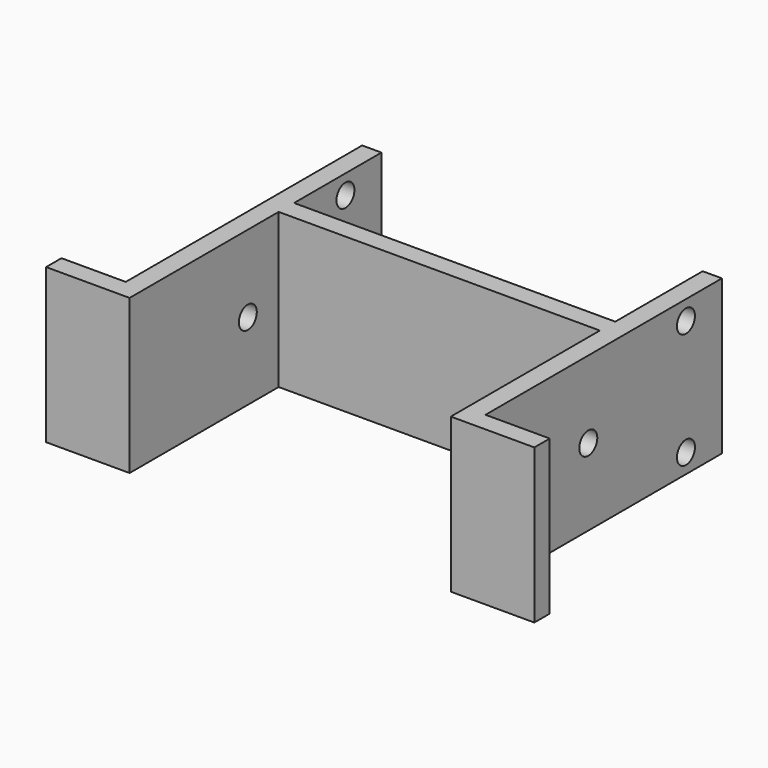
from build123d import *

# Parameters (mm, degrees)
F1_DEPTH = 12
F2_R     = 1.75
F3_DEPTH = 66.001


with BuildPart() as f1:
    # F0 (on Top) → F1 (new body, symmetric)
    with BuildSketch(Plane.XY):
        Polygon((-38, 3), (-38, 0), (-25, 0), (-25, 29), (25, 29), (25, 0), (38, 0), (38, 3), (28, 3), (28, 49), (25, 49), (25, 32), (-25, 32), (-25, 49), (-28, 49), (-28, 3), align=None)
    extrude(amount=F1_DEPTH, both=True)

    # F2 (on face) → F3 (cut, through all)
    with BuildSketch(Plane(origin=(-28, 0, 0), x_dir=(0, -1, 0), z_dir=(-1, 0, 0))):
        with Locations((-42, 9)):
            Circle(F2_R)
        with Locations((-42, -9)):
            Circle(F2_R)
        with Locations((-23, 0)):
            Circle(F2_R)
    extrude(amount=-F3_DEPTH, mode=Mode.SUBTRACT)


solid = f1.part
